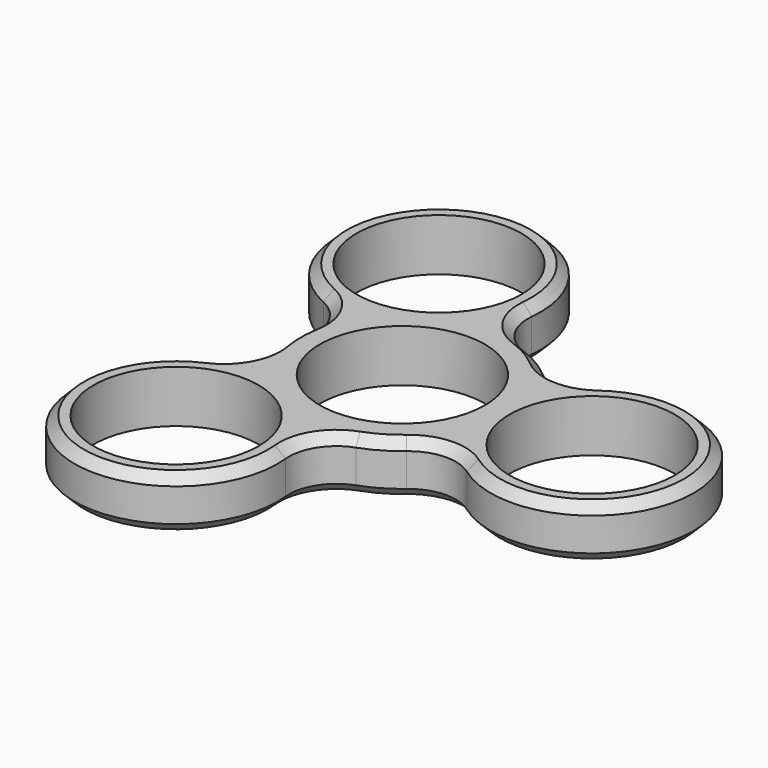
from build123d import *

# Parameters (mm, degrees)
F0_R     = 11.049
F1_DEPTH = 6.985
F2_SIZE  = 1.27


with BuildPart() as f1:
    # F0 (on Top) → F1 (new body)
    with BuildSketch(Plane.XY):
        with BuildLine():
            ThreePointArc((4.999437, 13.992695), (1.765902, 16.583511), (0.818767, 20.617245))
            ThreePointArc((0.818767, 20.617245), (-19.4945, 33.765464), (-18.264442, 9.599549))
            ThreePointArc((-18.264442, 9.599549), (-15.244693, 6.762439), (-14.617748, 2.666708))
            ThreePointArc((-14.617748, 2.666708), (-14.859, 0), (-14.617748, -2.666708))
            ThreePointArc((-14.617748, -2.666708), (-15.244693, -6.762439), (-18.264442, -9.599549))
            ThreePointArc((-18.264442, -9.599549), (-19.4945, -33.765464), (0.818767, -20.617245))
            ThreePointArc((0.818767, -20.617245), (1.765902, -16.583511), (4.999437, -13.992695))
            ThreePointArc((4.999437, -13.992695), (7.4295, -12.868271), (9.618311, -11.325987))
            ThreePointArc((9.618311, -11.325987), (13.478791, -9.821072), (17.445675, -11.017696))
            ThreePointArc((17.445675, -11.017696), (38.989, 0), (17.445675, 11.017696))
            ThreePointArc((17.445675, 11.017696), (13.478791, 9.821072), (9.618311, 11.325987))
            ThreePointArc((9.618311, 11.325987), (7.4295, 12.868271), (4.999437, 13.992695))
        make_face()
        with Locations((-12.7, -21.997045)):
            Circle(F0_R, mode=Mode.SUBTRACT)
        Circle(F0_R, mode=Mode.SUBTRACT)
        with Locations((25.4, 0)):
            Circle(F0_R, mode=Mode.SUBTRACT)
        with Locations((-12.7, 21.997045)):
            Circle(F0_R, mode=Mode.SUBTRACT)
    extrude(amount=F1_DEPTH)

    # F2
    f2_edges = [f1.edges().sort_by_distance(p)[0] for p in [
        (-19.4945, -33.765464, 6.985),
        (1.765902, -16.583511, 0),
    ]]
    chamfer(f2_edges, length=F2_SIZE)


solid = f1.part
